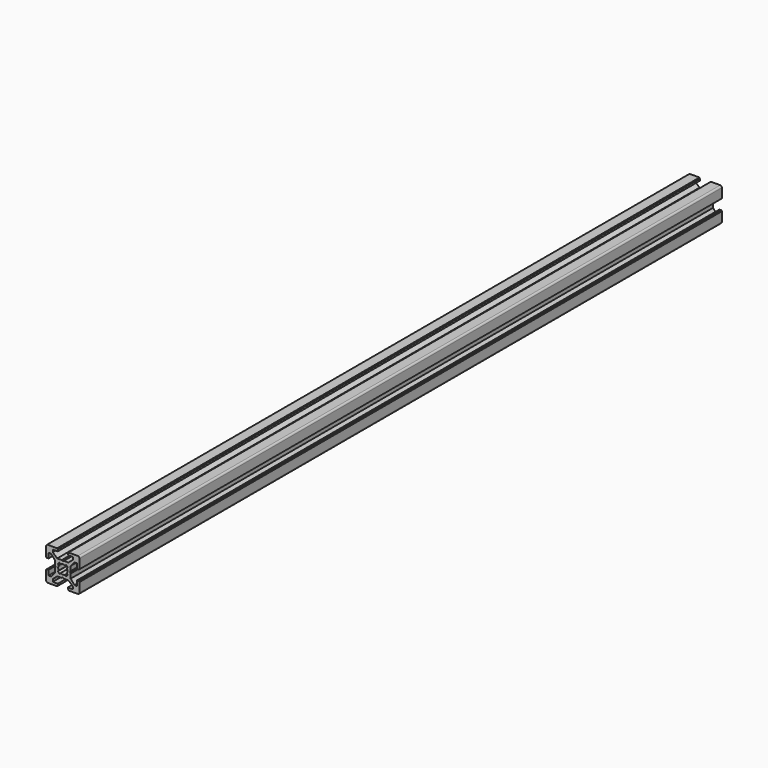
from build123d import *

# Parameters (mm, degrees)
PAD_DEPTH          = 480
POCKET_DEPTH       = 480
POLARPATTERN_COUNT = 4
POCKET001_DEPTH    = 480


with BuildPart() as part:
    # Sketch → Pad (new body)
    with BuildSketch(Plane.XZ):
        with BuildLine():
            Line((-9, 10), (9, 10))
            ThreePointArc((10, 9), (9.707107, 9.707107), (9, 10))
            Line((10, 9), (10, -9))
            ThreePointArc((9, -10), (9.707107, -9.707107), (10, -9))
            Line((9, -10), (-9, -10))
            ThreePointArc((-10, -9), (-9.707107, -9.707107), (-9, -10))
            Line((-10, -9), (-10, 9))
            ThreePointArc((-9, 10), (-9.707107, 9.707107), (-10, 9))
        make_face()
    extrude(amount=PAD_DEPTH)

    # Sketch001 (on Face10 of Pad) → Pocket (cut)
    with BuildSketch(Plane.XZ.offset(480)):
        Polygon((-3.4, 10), (-3.4, 9.6), (-3, 9.6), (-3, 8.5), (-6, 8.5), (-6, 7), (-3.35, 4.7), (-0.65, 4.7), (0, 4.3), (0.65, 4.7), (3.35, 4.7), (6, 7), (6, 8.5), (3, 8.5), (3, 9.6), (3.4, 9.6), (3.4, 10), align=None)
    pocket = extrude(amount=-POCKET_DEPTH, mode=Mode.SUBTRACT)

    # PolarPattern: Pocket ×4 about axis
    polarpattern_axis = Axis((0, -480, 0), (0, -1, 0))
    for i in range(1, POLARPATTERN_COUNT):
        add(pocket.rotate(polarpattern_axis, i * 360 / POLARPATTERN_COUNT), mode=Mode.SUBTRACT)

    # Sketch002 (on Face4 of PolarPattern) → Pocket001 (cut)
    with BuildSketch(Plane.XZ.offset(480)):
        with BuildLine():
            ThreePointArc((1.340499, 2.401159), (0, 2.75), (-1.340499, 2.401159))
            Line((-1.944544, 3.005204), (-1.340499, 2.401159))
            Line((-3.005204, 1.944544), (-1.944544, 3.005204))
            Line((-2.401159, 1.340499), (-3.005204, 1.944544))
            ThreePointArc((-2.401159, 1.340499), (-2.75, 0), (-2.401159, -1.340499))
            Line((-3.005204, -1.944544), (-2.401159, -1.340499))
            Line((-1.944544, -3.005204), (-3.005204, -1.944544))
            Line((-1.340499, -2.401159), (-1.944544, -3.005204))
            ThreePointArc((-1.340499, -2.401159), (0, -2.75), (1.340499, -2.401159))
            Line((1.944544, -3.005204), (1.340499, -2.401159))
            Line((3.005204, -1.944544), (1.944544, -3.005204))
            Line((2.401159, -1.340499), (3.005204, -1.944544))
            ThreePointArc((2.401159, -1.340499), (2.75, 0), (2.401159, 1.340499))
            Line((2.401159, 1.340499), (3.005204, 1.944544))
            Line((3.005204, 1.944544), (1.944544, 3.005204))
            Line((1.944544, 3.005204), (1.340499, 2.401159))
        make_face()
    extrude(amount=-POCKET001_DEPTH, mode=Mode.SUBTRACT)


solid = part.part
